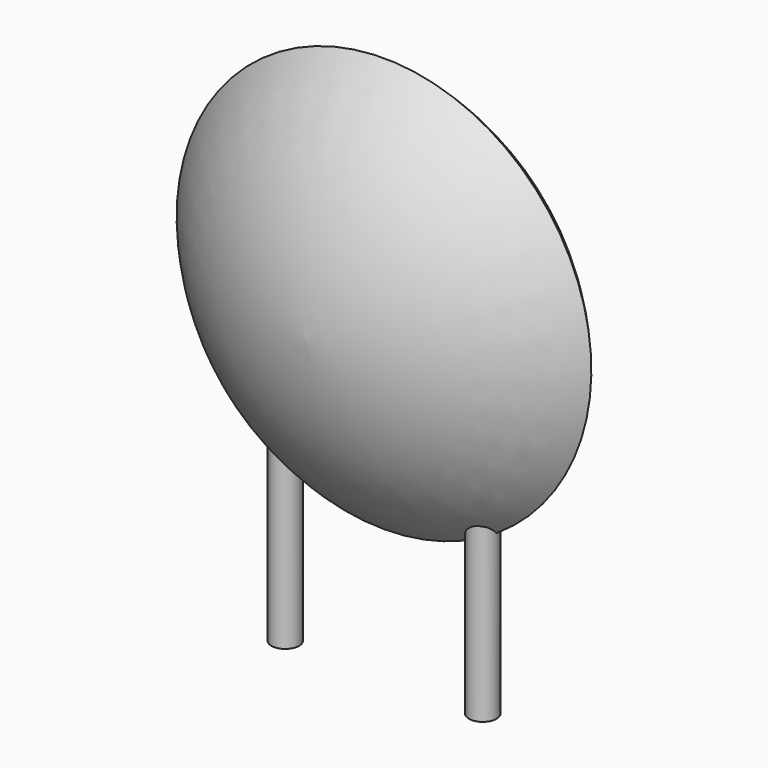
from build123d import *

# Parameters (mm, degrees)
SKETCH001_R       = 0.35
PAD001_DEPTH      = 2.1
PAD001_DEPTH_BACK = 3.2
SKETCH002_R       = 0.35
SKETCH003_R       = 0.35
SKETCH004_R       = 0.35
SKETCH005_R       = 0.35


with BuildPart() as pad001:
    # Sketch001 → Pad001 (new body, two sides)
    with BuildSketch(Plane.XY) as pad001_sk:
        Circle(SKETCH001_R)
        with Locations((5, 0)):
            Circle(SKETCH001_R)
    extrude(amount=PAD001_DEPTH)
    extrude(pad001_sk.sketch, amount=-PAD001_DEPTH_BACK)


with BuildPart() as revolution:
    # Sketch → Revolution (revolve)
    with BuildSketch(Plane.YZ.offset(2.5)):
        with BuildLine():
            Line((-2.5, 5.35), (2.5, 5.35))
            ThreePointArc((0, 0.1), (1.803019, 2.461658), (2.5, 5.35))
            ThreePointArc((-2.5, 5.35), (-1.803019, 2.461658), (0, 0.1))
        make_face()
    revolve(axis=Axis((2.5, -3.32079, 5.35), (0, 1, 0)))


with BuildPart() as loft_body:
    # Sketch002 → Loft section 0
    with BuildSketch(Plane.XY.offset(5.25)):
        with Locations((-1.7, 0)):
            Circle(SKETCH002_R)
    # Sketch003 → Loft section 1
    with BuildSketch(Plane.XY.offset(2.1)):
        Circle(SKETCH003_R)
    loft()


with BuildPart() as loft001:
    # Sketch004 → Loft001 section 0
    with BuildSketch(Plane.XY.offset(2.1)):
        with Locations((5, 0)):
            Circle(SKETCH004_R)
    # Sketch005 → Loft001 section 1
    with BuildSketch(Plane.XY.offset(5.25)):
        with Locations((6.7, 0)):
            Circle(SKETCH005_R)
    loft()


solid = Compound([pad001.part, revolution.part, loft_body.part, loft001.part])
